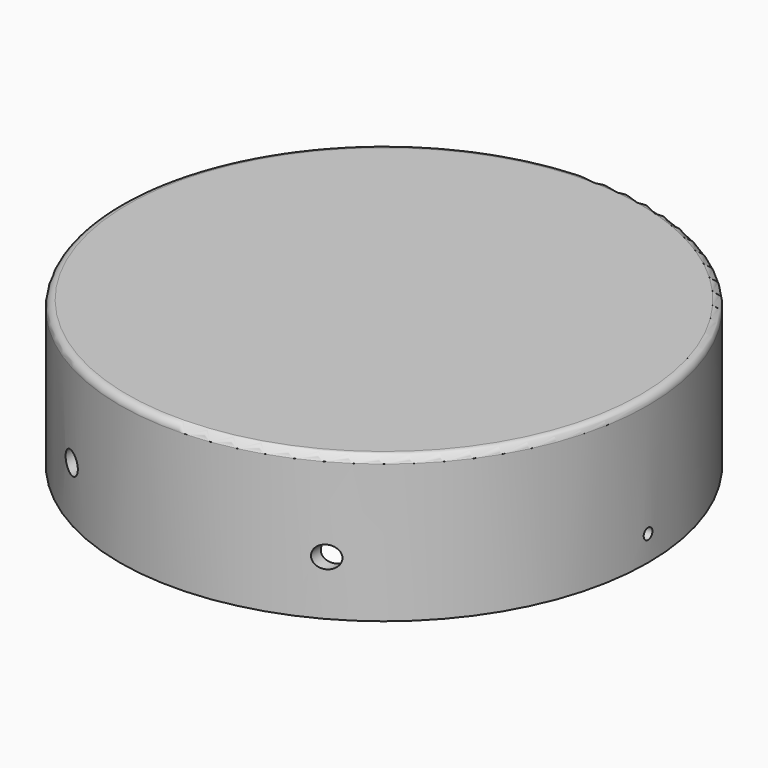
from build123d import *

# Parameters (mm, degrees)
F0_R          = 72.5
F1_DEPTH      = 40
F2_R          = 69.5
F3_DEPTH      = 37
F4_R          = 3
F5_DEPTH      = 72.501
F6_R          = 1.5
F7_DEPTH      = 72.5010001
F7_DEPTH_BACK = 72.5010001
F8_R          = 2


with BuildPart() as f1:
    # F0 (on Top) → F1 (new body)
    with BuildSketch(Plane.XY):
        Circle(F0_R)
    extrude(amount=F1_DEPTH)

    # F2 (on face) → F3 (cut)
    with BuildSketch(Plane(origin=(0, 0, 0), x_dir=(1, 0, 0), z_dir=(0, 0, -1))):
        Circle(F2_R)
    extrude(amount=-F3_DEPTH, mode=Mode.SUBTRACT)

    # F4 (on Front) → F5 (cut, through all)
    with BuildSketch(Plane.XZ):
        with Locations((35, 15)):
            Circle(F4_R)
        with Locations((-35, 15)):
            Circle(F4_R)
    extrude(amount=F5_DEPTH, mode=Mode.SUBTRACT)

    # F6 (on Right) → F7 (cut, two sides)
    with BuildSketch(Plane.YZ) as f7_sk:
        with Locations((0, 7)):
            Circle(F6_R)
    extrude(amount=-F7_DEPTH, mode=Mode.SUBTRACT)
    extrude(f7_sk.sketch, amount=F7_DEPTH_BACK, mode=Mode.SUBTRACT)

    # F8
    f8_edges = [f1.edges().sort_by_distance(p)[0] for p in [
        (-72.5, 0, 40),
    ]]
    fillet(f8_edges, radius=F8_R)


solid = f1.part
